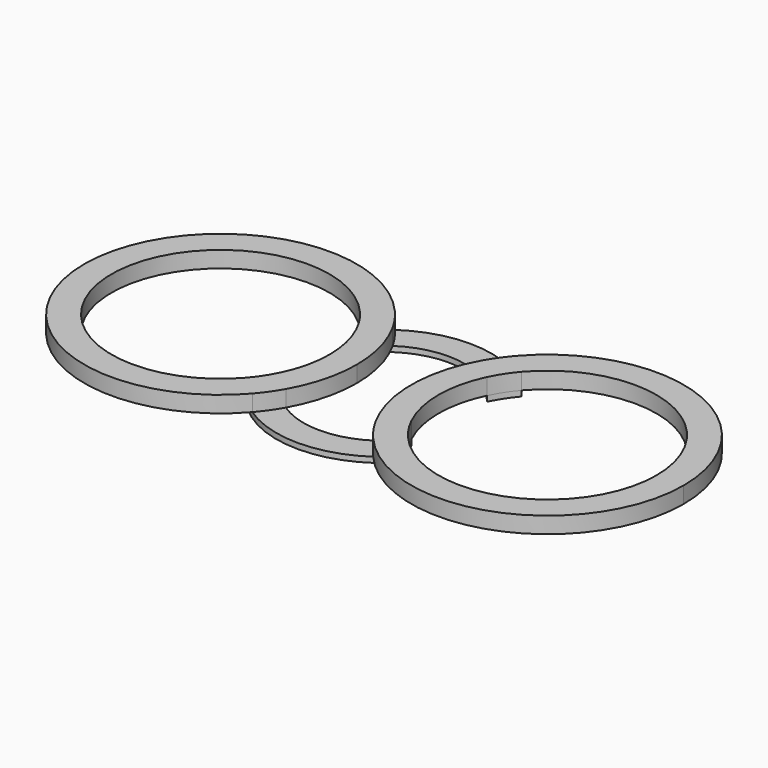
from build123d import *

# Parameters (mm, degrees)
F0_R     = 19.75
F0_R_2   = 14.75
F1_DEPTH = 1
F3_DEPTH = 3
F4_DEPTH = 25


with BuildPart() as f1:
    # F0 (on Top) → F1 (new body)
    with BuildSketch(Plane.XY):
        Circle(F0_R)
        Circle(F0_R_2, mode=Mode.SUBTRACT)
    extrude(amount=F1_DEPTH)

    # F2 (on face) → F3 (join)
    with BuildSketch(Plane.XY.offset(1)):
        with BuildLine():
            ThreePointArc((-14.834375, -13.038551237), (-50, 0), (-14.834375, 13.038551237))
            ThreePointArc((-14.834375, 13.038551237), (-13.0644777856, 14.8115468533), (-11.084375, 16.346226808))
            ThreePointArc((-11.084375, 16.346226808), (-55, 0), (-11.084375, -16.346226808))
            ThreePointArc((-11.084375, -16.346226808), (-13.0644777856, -14.8115468533), (-14.834375, -13.038551237))
        make_face()
        with BuildLine():
            ThreePointArc((-11.959375, 8.6334147132), (-10.4959940012, 4.4264828024), (-10, 0))
            ThreePointArc((-10, 0), (-10.4959940012, -4.4264828024), (-11.959375, -8.6334147132))
            ThreePointArc((-11.959375, -8.6334147132), (-10.2456029754, -10.6108491493), (-8.209375, -12.2543323812))
            ThreePointArc((-8.209375, -12.2543323812), (-5.8156494298, -6.3338130301), (-5, 0))
            ThreePointArc((-5, 0), (-5.8156494298, 6.3338130301), (-8.209375, 12.2543323812))
            ThreePointArc((-8.209375, 12.2543323812), (-10.2456029754, 10.6108491493), (-11.959375, 8.6334147132))
        make_face()
        with BuildLine():
            ThreePointArc((-14.834375, 13.038551237), (-13.2514159788, 10.9309163974), (-11.959375, 8.6334147132))
            ThreePointArc((-11.959375, 8.6334147132), (-10.2456029754, 10.6108491493), (-8.209375, 12.2543323812))
            ThreePointArc((-8.209375, 12.2543323812), (-9.5443015943, 14.3723485462), (-11.084375, 16.346226808))
            ThreePointArc((-11.084375, 16.346226808), (-13.0644777856, 14.8115468533), (-14.834375, 13.038551237))
        make_face()
        with BuildLine():
            ThreePointArc((-8.209375, -12.2543323812), (-10.2456029754, -10.6108491493), (-11.959375, -8.6334147132))
            ThreePointArc((-11.959375, -8.6334147132), (-13.2514159788, -10.9309163974), (-14.834375, -13.038551237))
            ThreePointArc((-14.834375, -13.038551237), (-13.0644777856, -14.8115468533), (-11.084375, -16.346226808))
            ThreePointArc((-11.084375, -16.346226808), (-9.5443015943, -14.3723485462), (-8.209375, -12.2543323812))
        make_face()
        with BuildLine():
            ThreePointArc((55, 0), (38.7209338663, 23.4295819958), (11.084375, 16.346226808))
            ThreePointArc((11.084375, 16.346226808), (13.0644777856, 14.8115468533), (14.834375, 13.038551237))
            ThreePointArc((14.834375, 13.038551237), (36.9529669926, 18.7524998334), (50, 0))
            ThreePointArc((50, 0), (36.9529669926, -18.7524998334), (14.834375, -13.038551237))
            ThreePointArc((14.834375, -13.038551237), (13.0644777856, -14.8115468533), (11.084375, -16.346226808))
            ThreePointArc((11.084375, -16.346226808), (38.7209338663, -23.4295819958), (55, 0))
        make_face()
        with BuildLine():
            ThreePointArc((11.959375, -8.6334147132), (10.2456029754, -10.6108491493), (8.209375, -12.2543323812))
            ThreePointArc((8.209375, -12.2543323812), (9.5443015943, -14.3723485462), (11.084375, -16.346226808))
            ThreePointArc((11.084375, -16.346226808), (13.0644777856, -14.8115468533), (14.834375, -13.038551237))
            ThreePointArc((14.834375, -13.038551237), (13.2514159788, -10.9309163974), (11.959375, -8.6334147132))
        make_face()
        with BuildLine():
            ThreePointArc((11.959375, 8.6334147132), (10.2456029754, 10.6108491493), (8.209375, 12.2543323812))
            ThreePointArc((8.209375, 12.2543323812), (5, 0), (8.209375, -12.2543323812))
            ThreePointArc((8.209375, -12.2543323812), (10.2456029754, -10.6108491493), (11.959375, -8.6334147132))
            ThreePointArc((11.959375, -8.6334147132), (10, 0), (11.959375, 8.6334147132))
        make_face()
        with BuildLine():
            ThreePointArc((11.084375, 16.346226808), (9.5443015943, 14.3723485462), (8.209375, 12.2543323812))
            ThreePointArc((8.209375, 12.2543323812), (10.2456029754, 10.6108491493), (11.959375, 8.6334147132))
            ThreePointArc((11.959375, 8.6334147132), (13.2514159788, 10.9309163974), (14.834375, 13.038551237))
            ThreePointArc((14.834375, 13.038551237), (13.0644777856, 14.8115468533), (11.084375, 16.346226808))
        make_face()
    extrude(amount=F3_DEPTH)

    # F4 (cut): faces of the model
    f4_faces = [f1.faces().sort_by_distance(p)[0] for p in [
        (16.0717214062, 0, 1),
        (-16.0717214062, 0, 1),
    ]]
    extrude(f4_faces, amount=-F4_DEPTH, mode=Mode.SUBTRACT)


solid = f1.part
